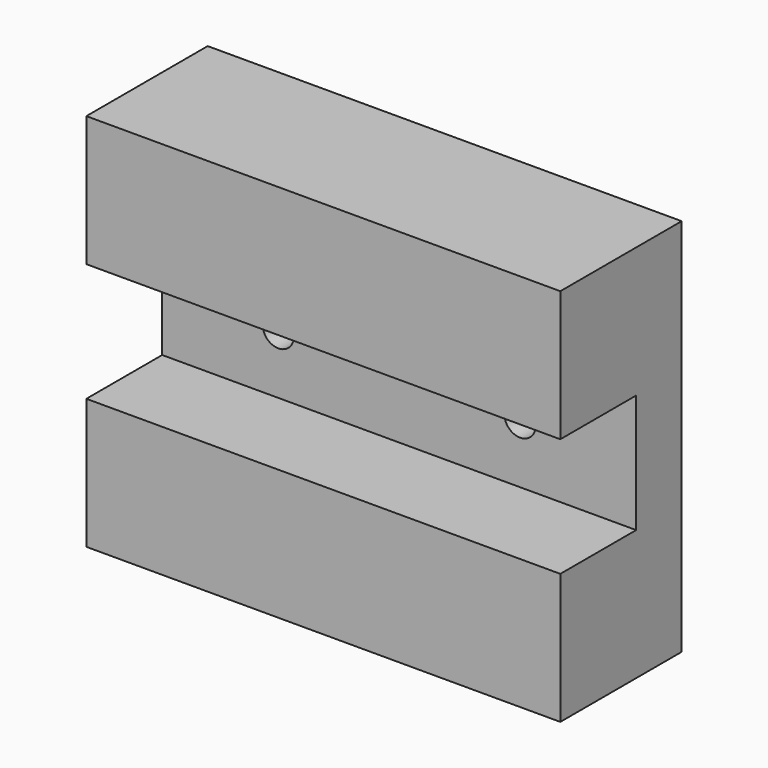
from build123d import *

# Parameters (mm, degrees)
F0_W     = 100
F0_H     = 80
F1_DEPTH = 12
F2_D     = 6.6
F2_DEPTH = 12
F2_TIP   = 1.9828400428
F3_W     = 100
F3_H     = 27.5
F4_DEPTH = 20


with BuildPart() as f1:
    # F0 (on Front) → F1 (new body)
    with BuildSketch(Plane.XZ):
        with Locations((-50, 40)):
            Rectangle(F0_W, F0_H)
    extrude(amount=F1_DEPTH)

    # F2
    with Locations(Plane(origin=(0, 0, 0), x_dir=(1, 0, 0), z_dir=(0, 1, 0))):
        with Locations((-75.5, -40), (-50, -14.5), (-50, -65.5), (-24.5, -40)):
            Hole(F2_D / 2, depth=F2_DEPTH)
            with Locations((0, 0, -(F2_DEPTH + F2_TIP / 2))):  # 118° drill point
                Cone(0, F2_D / 2, F2_TIP, mode=Mode.SUBTRACT)

    # F3 (on face) → F4 (join)
    with BuildSketch(Plane.XZ.offset(12)):
        with Locations((-50, 13.75)):
            Rectangle(F3_W, F3_H)
        with Locations((-50, 66.25)):
            Rectangle(F3_W, F3_H)
    extrude(amount=F4_DEPTH)


solid = f1.part
